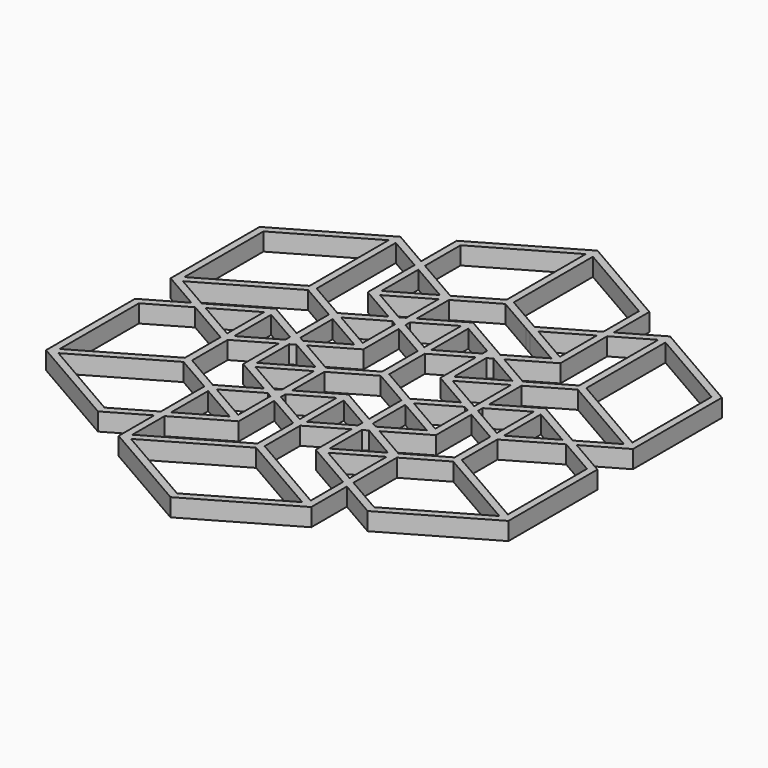
from build123d import *

# Parameters (mm, degrees)
F1_DEPTH = 2


with BuildPart() as f1:
    # F0 (on Top) → F1 (new body)
    with BuildSketch(Plane.XY):
        Polygon((-15.1554445662, 3.75), (-20.8506350946, 0.4618802154), (-20.0506350946, 0), (-15.5554445662, 2.5952994616), (-15.5554445662, -2.5952994616), (-15.1554445662, -2.8262395693), (-14.7554445662, -2.5952994616), (-14.7554445662, 2.5952994616), (-10.8253175473, 0.3262395693), (-10.8253175473, 1.25), align=None)
        Polygon((-15.1554445662, -21.25), (-10.8253175473, -18.75), (-10.8253175473, -17.8262395693), (-15.1554445662, -20.3262395693), (-24.7807621135, -14.7690598923), (-15.1554445662, -9.2118802154), (-10.8253175473, -11.7118802154), (-10.8253175473, -11.25), (-10.4253175473, -11.0190598923), (-14.7554445662, -8.5190598923), (-14.7554445662, -3.5190598923), (-15.1554445662, -3.75), (-15.5554445662, -3.5190598923), (-15.5554445662, -8.5190598923), (-25.1807621135, -14.0762395693), (-25.1807621135, -2.9618802154), (-20.8506350946, -0.4618802154), (-21.6506350946, 0), (-25.9807621135, -2.5), (-25.9807621135, -15), align=None)
        Polygon((-10.0253175473, -17.3643593539), (-10.0253175473, -18.2881197846), (-4.3301270189, -15), (-4.3301270189, -10), (-5.1301270189, -9.5381197846), (-5.1301270189, -14.0762395693), (-9.6253175473, -11.4809401077), (-10.0253175473, -11.7118802154), (-10.0253175473, -12.1737604307), (-5.5301270189, -14.7690598923), align=None)
        Polygon((-5.1301270189, -7.9618802154), (-4.3301270189, -7.5), (-4.3301270189, -2.9618802154), (-5.1301270189, -3.4237604307), align=None)
        Polygon((-10.8253175473, -0.3262395693), (-10.8253175473, -1.25), (-10.0253175473, -0.7881197846), (-10.0253175473, -0.1356406461), (-10.2602540378, 0), align=None)
        Polygon((-20.0506350946, 0), (-20.8506350946, -0.4618802154), (-15.5554445662, -3.5190598923), (-15.5554445662, -2.5952994616), align=None)
        Polygon((-15.1554445662, -3.75), (-14.7554445662, -3.5190598923), (-14.7554445662, -2.5952994616), (-15.1554445662, -2.8262395693), (-15.5554445662, -2.5952994616), (-15.5554445662, -3.5190598923), align=None)
        Polygon((-20.8506350946, 0.4618802154), (-21.6506350946, 0), (-20.8506350946, -0.4618802154), (-20.0506350946, 0), align=None)
        Polygon((-10.0253175473, -0.1356406461), (-9.4602540378, -0.4618802154), (-8.6602540378, 0), (-9.4602540378, 0.4618802154), (-10.0253175473, 0.1356406461), align=None)
        Polygon((-25.9807621135, 2.5), (-21.6506350946, 0), (-20.8506350946, 0.4618802154), (-24.7807621135, 2.7309401077), (-15.1554445662, 8.2881197846), (-10.8253175473, 5.7881197846), (-10.8253175473, 6.25), (-10.4253175473, 6.4809401077), (-14.7554445662, 8.9809401077), (-14.7554445662, 20.0952994616), (-10.8253175473, 17.8262395693), (-10.8253175473, 18.75), (-15.1554445662, 21.25), (-25.9807621135, 15), align=None)
        Polygon((-15.5554445662, 8.9809401077), (-25.1807621135, 3.4237604307), (-25.1807621135, 14.5381197846), (-15.5554445662, 20.0952994616), align=None, mode=Mode.SUBTRACT)
        Polygon((-6.4951905284, -8.75), (-10.4253175473, -11.0190598923), (-9.6253175473, -11.4809401077), (-5.6951905284, -9.2118802154), align=None)
        Polygon((-4.8951905284, -8.75), (-4.3301270189, -8.4237604307), (-4.3301270189, -7.5), (-5.1301270189, -7.9618802154), (-5.1301270189, -8.6143593539), align=None)
        Polygon((-10.8253175473, -11.7118802154), (-10.8253175473, -17.8262395693), (-10.0253175473, -17.3643593539), (-10.0253175473, -12.1737604307), align=None)
        Polygon((-10.8253175473, -11.25), (-10.8253175473, -11.7118802154), (-10.0253175473, -12.1737604307), (-10.0253175473, -11.7118802154), (-9.6253175473, -11.4809401077), (-10.4253175473, -11.0190598923), align=None)
        Polygon((-10.8253175473, -23.75), (0, -30), (10.8253175473, -23.75), (10.8253175473, -18.75), (10.0253175473, -18.2881197846), (10.0253175473, -22.8262395693), (0.4, -17.2690598923), (0.4, -12.2690598923), (0, -12.5), (-0.4, -12.2690598923), (-0.4, -17.2690598923), (-10.0253175473, -22.8262395693), (-10.0253175473, -18.2881197846), (-10.8253175473, -18.75), align=None)
        Polygon((0, -17.9618802154), (9.6253175473, -23.5190598923), (0, -29.0762395693), (-9.6253175473, -23.5190598923), align=None, mode=Mode.SUBTRACT)
        Polygon((-10.8253175473, -17.8262395693), (-10.8253175473, -18.75), (-10.0253175473, -18.2881197846), (-10.0253175473, -17.3643593539), align=None)
        Polygon((-10.0253175473, 17.3643593539), (-10.8253175473, 17.8262395693), (-10.8253175473, 11.25), (-6.4951905284, 8.75), (-5.6951905284, 9.2118802154), (-9.6253175473, 11.4809401077), (-5.1301270189, 14.0762395693), (-5.1301270189, 14.5381197846), (-5.5301270189, 14.7690598923), (-10.0253175473, 12.1737604307), align=None)
        Polygon((-5.1301270189, 7.9618802154), (-4.3301270189, 7.5), (-4.3301270189, 8.4237604307), (-4.8951905284, 8.75), (-5.1301270189, 8.6143593539), align=None)
        Polygon((-4.8951905284, 8.75), (-4.3301270189, 8.4237604307), (-4.3301270189, 9.0762395693), align=None)
        Polygon((-4.7301270189, 15.2309401077), (-10.0253175473, 18.2881197846), (-10.0253175473, 17.3643593539), (-5.5301270189, 14.7690598923), align=None)
        Polygon((-10.0253175473, 18.2881197846), (-10.8253175473, 18.75), (-10.8253175473, 17.8262395693), (-10.0253175473, 17.3643593539), align=None)
        Polygon((-4.3301270189, 15), (-4.7301270189, 15.2309401077), (-5.5301270189, 14.7690598923), (-5.1301270189, 14.5381197846), (-5.1301270189, 14.0762395693), (-4.3301270189, 14.5381197846), align=None)
        Polygon((-10.8253175473, 23.75), (-10.8253175473, 18.75), (-10.0253175473, 18.2881197846), (-10.0253175473, 23.2881197846), (-0.4, 28.8452994616), (-0.4, 17.7309401077), (-4.7301270189, 15.2309401077), (-4.3301270189, 15), (-4.3301270189, 14.5381197846), (0, 17.0381197846), (4.3301270189, 14.5381197846), (4.3301270189, 15), (4.7301270189, 15.2309401077), (0.4, 17.7309401077), (0.4, 28.8452994616), (10.0253175473, 23.2881197846), (10.0253175473, 18.2881197846), (10.8253175473, 18.75), (10.8253175473, 23.75), (0, 30), align=None)
        Polygon((-0.4, 6.1547005384), (-0.4, 5.2309401077), (0, 5), (0.4, 5.2309401077), (0.4, 6.1547005384), (0, 5.9237604307), align=None)
        Polygon((4.3301270189, 8.4237604307), (4.3301270189, 7.5), (5.1301270189, 7.9618802154), (5.1301270189, 8.6143593539), (4.8951905284, 8.75), align=None)
        Polygon((4.8951905284, 8.75), (5.1301270189, 8.8856406461), (5.1301270189, 9.5381197846), (4.3301270189, 10), (4.3301270189, 9.0762395693), align=None)
        Polygon((10.8253175473, 11.25), (10.8253175473, 17.8262395693), (10.0253175473, 17.3643593539), (10.0253175473, 12.1737604307), (5.5301270189, 14.7690598923), (5.1301270189, 14.5381197846), (5.1301270189, 14.0762395693), (9.6253175473, 11.4809401077), (5.6951905284, 9.2118802154), (6.4951905284, 8.75), align=None)
        Polygon((5.5301270189, 14.7690598923), (4.7301270189, 15.2309401077), (4.3301270189, 15), (4.3301270189, 14.5381197846), (5.1301270189, 14.0762395693), (5.1301270189, 14.5381197846), align=None)
        Polygon((10.0253175473, 17.3643593539), (10.0253175473, 18.2881197846), (4.7301270189, 15.2309401077), (5.5301270189, 14.7690598923), align=None)
        Polygon((20.8506350946, 0.4618802154), (21.6506350946, 0), (25.9807621135, 2.5), (25.9807621135, 15), (15.1554445662, 21.25), (10.8253175473, 18.75), (10.8253175473, 17.8262395693), (14.7554445662, 20.0952994616), (14.7554445662, 8.9809401077), (10.4253175473, 6.4809401077), (10.8253175473, 6.25), (10.8253175473, 5.7881197846), (15.1554445662, 8.2881197846), (24.7807621135, 2.7309401077), align=None)
        Polygon((15.5554445662, 8.9809401077), (15.5554445662, 20.0952994616), (25.1807621135, 14.5381197846), (25.1807621135, 3.4237604307), align=None, mode=Mode.SUBTRACT)
        Polygon((10.8253175473, 17.8262395693), (10.8253175473, 18.75), (10.0253175473, 18.2881197846), (10.0253175473, 17.3643593539), align=None)
        Polygon((9.4602540378, -0.4618802154), (10.0253175473, -0.7881197846), (10.0253175473, -0.1356406461), align=None)
        Polygon((8.6602540378, 0), (9.4602540378, -0.4618802154), (10.0253175473, -0.1356406461), (10.0253175473, 0.1356406461), (9.4602540378, 0.4618802154), align=None)
        Polygon((20.0506350946, 0), (20.8506350946, 0.4618802154), (15.1554445662, 3.75), (10.8253175473, 1.25), (10.8253175473, 0.3262395693), (14.7554445662, 2.5952994616), (14.7554445662, -2.5952994616), (15.1554445662, -2.8262395693), (15.5554445662, -2.5952994616), (15.5554445662, 2.5952994616), align=None)
        Polygon((14.7554445662, -2.5952994616), (14.7554445662, -3.5190598923), (15.1554445662, -3.75), (15.5554445662, -3.5190598923), (15.5554445662, -2.5952994616), (15.1554445662, -2.8262395693), align=None)
        Polygon((15.5554445662, -3.5190598923), (20.8506350946, -0.4618802154), (20.0506350946, 0), (15.5554445662, -2.5952994616), align=None)
        Polygon((20.8506350946, -0.4618802154), (21.6506350946, 0), (20.8506350946, 0.4618802154), (20.0506350946, 0), align=None)
        Polygon((10.8253175473, -17.8262395693), (10.8253175473, -18.75), (15.1554445662, -21.25), (25.9807621135, -15), (25.9807621135, -2.5), (21.6506350946, 0), (20.8506350946, -0.4618802154), (25.1807621135, -2.9618802154), (25.1807621135, -14.0762395693), (15.5554445662, -8.5190598923), (15.5554445662, -3.5190598923), (15.1554445662, -3.75), (14.7554445662, -3.5190598923), (14.7554445662, -8.5190598923), (10.4253175473, -11.0190598923), (10.8253175473, -11.25), (10.8253175473, -11.7118802154), (15.1554445662, -9.2118802154), (24.7807621135, -14.7690598923), (15.1554445662, -20.3262395693), align=None)
        Polygon((4.3301270189, -2.9618802154), (4.3301270189, -7.5), (5.1301270189, -7.9618802154), (5.1301270189, -3.4237604307), align=None)
        Polygon((4.3301270189, -7.5), (4.3301270189, -8.4237604307), (4.8951905284, -8.75), (5.1301270189, -8.6143593539), (5.1301270189, -7.9618802154), align=None)
        Polygon((5.1301270189, -8.6143593539), (5.6951905284, -8.2881197846), (5.1301270189, -7.9618802154), align=None)
        Polygon((4.3301270189, -8.4237604307), (4.3301270189, -9.0762395693), (4.8951905284, -8.75), align=None)
        Polygon((10.0253175473, -17.3643593539), (10.8253175473, -17.8262395693), (10.8253175473, -11.7118802154), (10.0253175473, -12.1737604307), align=None)
        Polygon((10.0253175473, -18.2881197846), (10.8253175473, -18.75), (10.8253175473, -17.8262395693), (10.0253175473, -17.3643593539), align=None)
        Polygon((10.0253175473, -12.1737604307), (10.8253175473, -11.7118802154), (10.8253175473, -11.25), (10.4253175473, -11.0190598923), (9.6253175473, -11.4809401077), (10.0253175473, -11.7118802154), align=None)
        Polygon((5.6951905284, -8.2881197846), (6.4951905284, -8.75), (10.8253175473, -6.25), (10.8253175473, -1.25), (10.0253175473, -0.7881197846), (10.0253175473, -5.3262395693), (5.5301270189, -2.7309401077), (5.1301270189, -2.9618802154), (5.1301270189, -3.4237604307), (9.6253175473, -6.0190598923), align=None)
        Polygon((0.4, -12.2690598923), (4.3301270189, -10), (4.3301270189, -9.0762395693), (0.4, -11.3452994616), align=None)
        Polygon((4.3301270189, -15), (10.0253175473, -18.2881197846), (10.0253175473, -17.3643593539), (5.5301270189, -14.7690598923), (10.0253175473, -12.1737604307), (10.0253175473, -11.7118802154), (9.6253175473, -11.4809401077), (5.1301270189, -14.0762395693), (5.1301270189, -9.5381197846), (4.3301270189, -10), align=None)
        Polygon((9.6253175473, -11.4809401077), (10.4253175473, -11.0190598923), (6.4951905284, -8.75), (5.6951905284, -9.2118802154), align=None)
        Polygon((-0.4, -6.1547005384), (-0.4, -11.3452994616), (0, -11.5762395693), (0.4, -11.3452994616), (0.4, -6.1547005384), (4.3301270189, -8.4237604307), (4.3301270189, -7.5), (0, -5), (-4.3301270189, -7.5), (-4.3301270189, -8.4237604307), align=None)
        Polygon((4.3301270189, -9.0762395693), (4.3301270189, -10), (5.1301270189, -9.5381197846), (5.1301270189, -8.8856406461), (4.8951905284, -8.75), align=None)
        Polygon((5.6951905284, -9.2118802154), (6.4951905284, -8.75), (5.6951905284, -8.2881197846), (5.1301270189, -8.6143593539), (5.1301270189, -8.8856406461), align=None)
        Polygon((-4.3301270189, -9.0762395693), (-4.3301270189, -10), (-0.4, -12.2690598923), (-0.4, -11.3452994616), align=None)
        Polygon((5.1301270189, -8.8856406461), (5.1301270189, -9.5381197846), (5.6951905284, -9.2118802154), align=None)
        Polygon((5.1301270189, -8.6143593539), (4.8951905284, -8.75), (5.1301270189, -8.8856406461), align=None)
        Polygon((4.3301270189, -2.5), (4.3301270189, -2.9618802154), (5.1301270189, -3.4237604307), (5.1301270189, -2.9618802154), (5.5301270189, -2.7309401077), (4.7301270189, -2.2690598923), align=None)
        Polygon((5.5301270189, -2.7309401077), (9.4602540378, -0.4618802154), (8.6602540378, 0), (4.7301270189, -2.2690598923), align=None)
        Polygon((-0.4, -11.3452994616), (-0.4, -12.2690598923), (0, -12.5), (0.4, -12.2690598923), (0.4, -11.3452994616), (0, -11.5762395693), align=None)
        Polygon((-5.1301270189, -9.5381197846), (-4.3301270189, -10), (-4.3301270189, -9.0762395693), (-4.8951905284, -8.75), (-5.1301270189, -8.8856406461), align=None)
        Polygon((-4.8951905284, -8.75), (-4.3301270189, -9.0762395693), (-4.3301270189, -8.4237604307), align=None)
        Polygon((-5.1301270189, -8.8856406461), (-4.8951905284, -8.75), (-5.1301270189, -8.6143593539), align=None)
        Polygon((-4.3301270189, -2.5), (-4.3301270189, -2.9618802154), (0, -0.4618802154), (4.3301270189, -2.9618802154), (4.3301270189, -2.5), (4.7301270189, -2.2690598923), (0.4, 0.2309401077), (0.4, 5.2309401077), (0, 5), (-0.4, 5.2309401077), (-0.4, 0.2309401077), (-4.7301270189, -2.2690598923), align=None)
        Polygon((-5.6951905284, -9.2118802154), (-5.1301270189, -9.5381197846), (-5.1301270189, -8.8856406461), align=None)
        Polygon((-5.6951905284, -8.2881197846), (-6.4951905284, -8.75), (-5.6951905284, -9.2118802154), (-5.1301270189, -8.8856406461), (-5.1301270189, -8.6143593539), align=None)
        Polygon((-5.1301270189, -7.9618802154), (-5.6951905284, -8.2881197846), (-5.1301270189, -8.6143593539), align=None)
        Polygon((-10.8253175473, -6.25), (-6.4951905284, -8.75), (-5.6951905284, -8.2881197846), (-9.6253175473, -6.0190598923), (-5.1301270189, -3.4237604307), (-5.1301270189, -2.9618802154), (-5.5301270189, -2.7309401077), (-10.0253175473, -5.3262395693), (-10.0253175473, -0.7881197846), (-10.8253175473, -1.25), align=None)
        Polygon((-8.6602540378, 0), (-9.4602540378, -0.4618802154), (-5.5301270189, -2.7309401077), (-4.7301270189, -2.2690598923), align=None)
        Polygon((-5.1301270189, -3.4237604307), (-4.3301270189, -2.9618802154), (-4.3301270189, -2.5), (-4.7301270189, -2.2690598923), (-5.5301270189, -2.7309401077), (-5.1301270189, -2.9618802154), align=None)
        Polygon((-10.0253175473, 0.7881197846), (-10.8253175473, 1.25), (-10.8253175473, 0.3262395693), (-10.2602540378, 0), (-10.0253175473, 0.1356406461), align=None)
        Polygon((-10.2602540378, 0), (-10.0253175473, -0.1356406461), (-10.0253175473, 0.1356406461), align=None)
        Polygon((-10.8253175473, 0.3262395693), (-10.8253175473, -0.3262395693), (-10.2602540378, 0), align=None)
        Polygon((-9.4602540378, 0.4618802154), (-10.0253175473, 0.7881197846), (-10.0253175473, 0.1356406461), align=None)
        Polygon((-10.8253175473, 5.7881197846), (-10.8253175473, 1.25), (-10.0253175473, 0.7881197846), (-10.0253175473, 5.3262395693), align=None)
        Polygon((-14.7554445662, -2.5952994616), (-14.7554445662, -3.5190598923), (-10.8253175473, -1.25), (-10.8253175473, -0.3262395693), align=None)
        Polygon((-5.5301270189, 2.7309401077), (-9.4602540378, 0.4618802154), (-8.6602540378, 0), (-4.3301270189, 2.5), (-4.3301270189, 7.5), (-5.1301270189, 7.9618802154), (-5.1301270189, 3.4237604307), (-9.6253175473, 6.0190598923), (-10.0253175473, 5.7881197846), (-10.0253175473, 5.3262395693), align=None)
        Polygon((-10.0253175473, -0.1356406461), (-10.0253175473, -0.7881197846), (-9.4602540378, -0.4618802154), align=None)
        Polygon((10.8253175473, -1.25), (14.7554445662, -3.5190598923), (14.7554445662, -2.5952994616), (10.8253175473, -0.3262395693), align=None)
        Polygon((10.0253175473, -0.7881197846), (10.8253175473, -1.25), (10.8253175473, -0.3262395693), (10.2602540378, 0), (10.0253175473, -0.1356406461), align=None)
        Polygon((10.0253175473, 0.1356406461), (10.0253175473, -0.1356406461), (10.2602540378, 0), align=None)
        Polygon((10.2602540378, 0), (10.8253175473, -0.3262395693), (10.8253175473, 0.3262395693), align=None)
        Polygon((10.8253175473, 0.3262395693), (10.8253175473, 1.25), (10.0253175473, 0.7881197846), (10.0253175473, 0.1356406461), (10.2602540378, 0), align=None)
        Polygon((8.6602540378, 0), (9.4602540378, 0.4618802154), (5.5301270189, 2.7309401077), (10.0253175473, 5.3262395693), (10.0253175473, 5.7881197846), (9.6253175473, 6.0190598923), (5.1301270189, 3.4237604307), (5.1301270189, 7.9618802154), (4.3301270189, 7.5), (4.3301270189, 2.5), align=None)
        Polygon((10.0253175473, 0.7881197846), (10.8253175473, 1.25), (10.8253175473, 5.7881197846), (10.0253175473, 5.3262395693), align=None)
        Polygon((10.0253175473, 5.3262395693), (10.8253175473, 5.7881197846), (10.8253175473, 6.25), (10.4253175473, 6.4809401077), (9.6253175473, 6.0190598923), (10.0253175473, 5.7881197846), align=None)
        Polygon((9.6253175473, 6.0190598923), (10.4253175473, 6.4809401077), (6.4951905284, 8.75), (5.6951905284, 8.2881197846), align=None)
        Polygon((5.6951905284, 8.2881197846), (6.4951905284, 8.75), (5.6951905284, 9.2118802154), (5.1301270189, 8.8856406461), (5.1301270189, 8.6143593539), align=None)
        Polygon((5.1301270189, 7.9618802154), (5.6951905284, 8.2881197846), (5.1301270189, 8.6143593539), align=None)
        Polygon((-0.4, 11.3452994616), (-0.4, 6.1547005384), (0, 5.9237604307), (0.4, 6.1547005384), (0.4, 11.3452994616), (4.3301270189, 9.0762395693), (4.3301270189, 10), (0, 12.5), (-4.3301270189, 10), (-4.3301270189, 9.0762395693), align=None)
        Polygon((4.8951905284, 8.75), (5.1301270189, 8.6143593539), (5.1301270189, 8.8856406461), align=None)
        Polygon((4.3301270189, 9.0762395693), (4.3301270189, 8.4237604307), (4.8951905284, 8.75), align=None)
        Polygon((5.1301270189, 8.8856406461), (5.6951905284, 9.2118802154), (5.1301270189, 9.5381197846), align=None)
        Polygon((0.4, 6.1547005384), (0.4, 5.2309401077), (4.3301270189, 7.5), (4.3301270189, 8.4237604307), align=None)
        Polygon((-4.3301270189, 7.5), (-0.4, 5.2309401077), (-0.4, 6.1547005384), (-4.3301270189, 8.4237604307), align=None)
        Polygon((-4.3301270189, 10), (-4.3301270189, 14.5381197846), (-5.1301270189, 14.0762395693), (-5.1301270189, 9.5381197846), align=None)
        Polygon((-6.4951905284, 8.75), (-10.4253175473, 6.4809401077), (-9.6253175473, 6.0190598923), (-5.6951905284, 8.2881197846), align=None)
        Polygon((-10.8253175473, 6.25), (-10.8253175473, 5.7881197846), (-10.0253175473, 5.3262395693), (-10.0253175473, 5.7881197846), (-9.6253175473, 6.0190598923), (-10.4253175473, 6.4809401077), align=None)
        Polygon((-5.1301270189, 8.6143593539), (-5.6951905284, 8.2881197846), (-5.1301270189, 7.9618802154), align=None)
        Polygon((-5.1301270189, 9.5381197846), (-5.6951905284, 9.2118802154), (-5.1301270189, 8.8856406461), align=None)
        Polygon((-5.1301270189, 9.5381197846), (-5.1301270189, 8.8856406461), (-4.8951905284, 8.75), (-4.3301270189, 9.0762395693), (-4.3301270189, 10), align=None)
        Polygon((-5.1301270189, 8.8856406461), (-5.1301270189, 8.6143593539), (-4.8951905284, 8.75), align=None)
        Polygon((-5.6951905284, 9.2118802154), (-6.4951905284, 8.75), (-5.6951905284, 8.2881197846), (-5.1301270189, 8.6143593539), (-5.1301270189, 8.8856406461), align=None)
    extrude(amount=F1_DEPTH)


solid = f1.part
